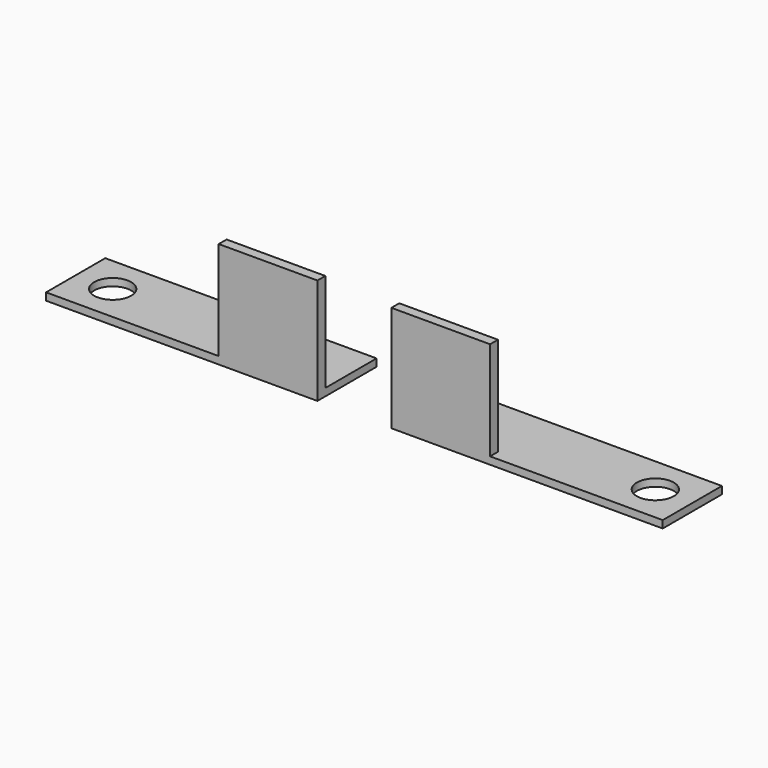
from build123d import *

# Parameters (mm, degrees)
F0_W     = 22
F0_H     = 6
F0_R     = 1.5
F1_DEPTH = 0.6
F2_W     = 8
F2_H     = 0.8
F3_DEPTH = 8


with BuildPart() as f1:
    # F0 (on Top) → F1 (new body)
    with BuildSketch(Plane.XY):
        with Locations((-11, 3)):
            Rectangle(F0_W, F0_H)
        with Locations((-3, 3)):
            Circle(F0_R, mode=Mode.SUBTRACT)
    extrude(amount=F1_DEPTH)

    # F2 (on face) → F3 (join)
    with BuildSketch(Plane.XY.offset(0.6)):
        with Locations((-18, 0.4)):
            Rectangle(F2_W, F2_H)
    extrude(amount=F3_DEPTH)


with BuildPart() as f5_1:
    # F5: instance of F1
    add(f1.part.mirror(Plane.YZ.offset(-25)))


solid = Compound([f1.part, f5_1.part])
